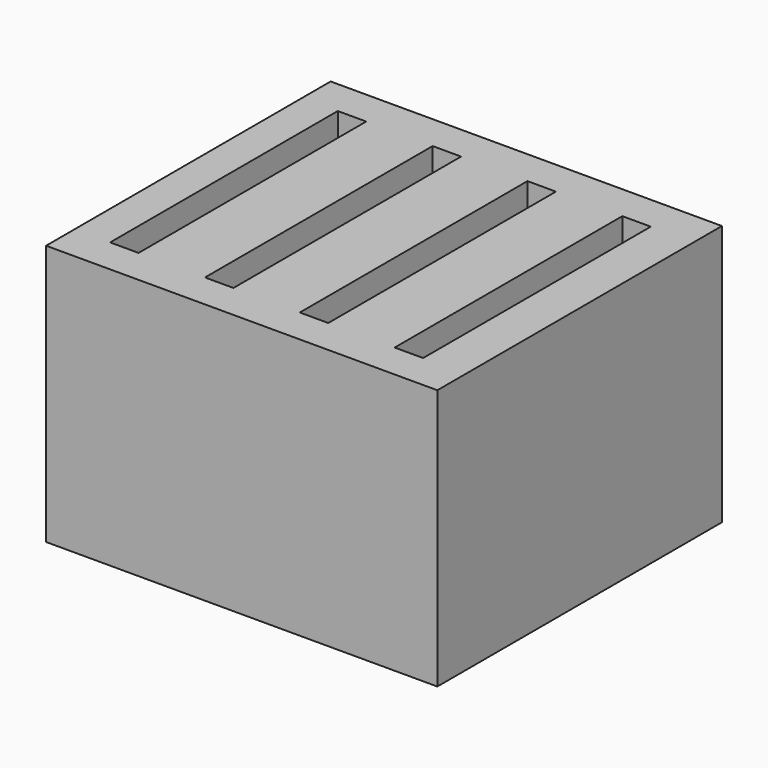
from build123d import *

# Parameters (mm, degrees)
BOX001_W     = 2.4
BOX001_H     = 24
BOX001_DEPTH = 22
BOX002_W     = 2.4
BOX002_H     = 24
BOX002_DEPTH = 22
BOX003_W     = 2.4
BOX003_H     = 24
BOX003_DEPTH = 22
BOX_W        = 2.4
BOX_H        = 24
BOX_DEPTH    = 22
BOX004_W     = 33
BOX004_H     = 30
BOX004_DEPTH = 22


with BuildPart() as box001:
    # Box001 → Box001 (new body)
    with BuildSketch(Plane(origin=(8, 0, 0), x_dir=(1, 0, 0), z_dir=(0, 0, 1))):
        with Locations((1.2, 12)):
            Rectangle(BOX001_W, BOX001_H)
    extrude(amount=BOX001_DEPTH)


with BuildPart() as box002:
    # Box002 → Box002 (new body)
    with BuildSketch(Plane(origin=(16, 0, 0), x_dir=(1, 0, 0), z_dir=(0, 0, 1))):
        with Locations((1.2, 12)):
            Rectangle(BOX002_W, BOX002_H)
    extrude(amount=BOX002_DEPTH)


with BuildPart() as box003:
    # Box003 → Box003 (new body)
    with BuildSketch(Plane(origin=(24, 0, 0), x_dir=(1, 0, 0), z_dir=(0, 0, 1))):
        with Locations((1.2, 12)):
            Rectangle(BOX003_W, BOX003_H)
    extrude(amount=BOX003_DEPTH)


with BuildPart() as ranuras:
    # Box → Box (new body)
    with BuildSketch(Plane.XY):
        with Locations((1.2, 12)):
            Rectangle(BOX_W, BOX_H)
    extrude(amount=BOX_DEPTH)

    # Fusion: union Box001, Box002, Box003
    add(box001.part)
    add(box002.part)
    add(box003.part)


with BuildPart() as ranuras_1:
    # Fusion placement: moved
    add(ranuras.part.moved(Location((0, 0, 3))))


with BuildPart() as obj1:
    # Box004 → Box004 (new body)
    with BuildSketch(Plane(origin=(-3, -3, 0), x_dir=(1, 0, 0), z_dir=(0, 0, 1))):
        with Locations((16.5, 15)):
            Rectangle(BOX004_W, BOX004_H)
    extrude(amount=BOX004_DEPTH)

    # Cut: cut Ranuras
    add(ranuras_1.part, mode=Mode.SUBTRACT)


solid = obj1.part
